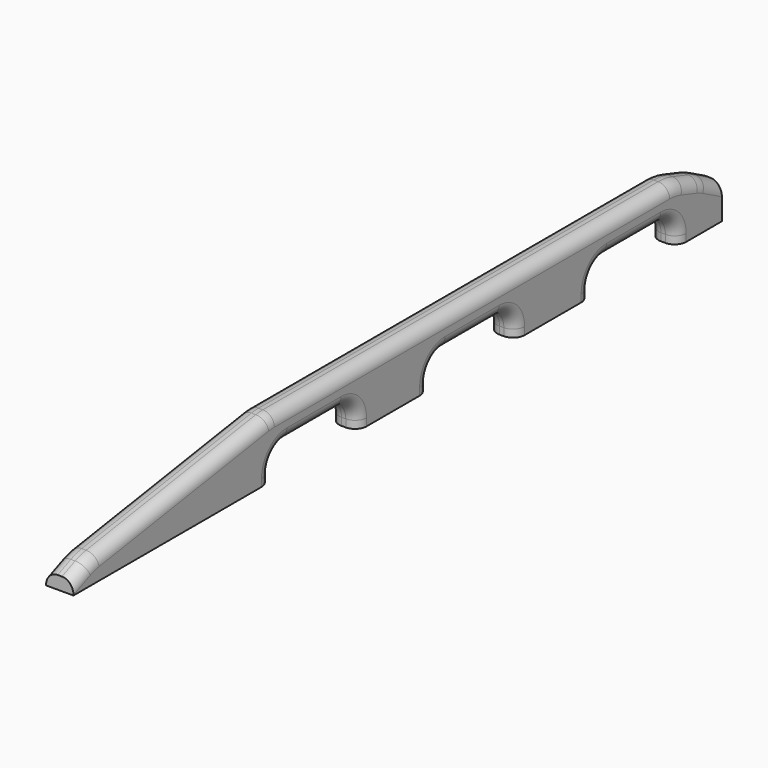
from build123d import *

# Parameters (mm, degrees)
F1_DEPTH      = 15.08125
F1_DEPTH_BACK = 15.08125
F2_R          = 63.5
F3_R          = 22.225
F4_R          = 12.7


with BuildPart() as f1:
    # F0 (on Right) → F1 (new body, two sides)
    with BuildSketch(Plane.YZ) as f1_sk:
        Polygon((0, 14.2875), (0, 0), (271.4625, 0), (271.4625, 30.48), (390.525, 30.48), (390.525, 0), (488.95, 0), (488.95, 30.48), (608.0125, 30.48), (608.0125, 0), (711.2, 0), (711.2, 30.48), (830.2625, 30.48), (830.2625, 0), (892.175, 0), (892.175, 38.1), (866.775, 51.60542), (830.2625, 63.5), (271.4625, 63.5), (25.4, 25.06916), align=None)
    extrude(amount=F1_DEPTH)
    extrude(f1_sk.sketch, amount=-F1_DEPTH_BACK)

    # F2
    f2_edges = [f1.edges().sort_by_distance(p)[0] for p in [
        (0, 25.4, 25.06916),
        (0, 271.4625, 63.5),
        (0, 830.2625, 63.5),
        (0, 866.775, 51.60542),
    ]]
    fillet(f2_edges, radius=F2_R)

    # F3
    f3_edges = [f1.edges().sort_by_distance(p)[0] for p in [
        (0, 271.4625, 30.48),
        (0, 488.95, 30.48),
        (0, 711.2, 30.48),
        (0, 390.525, 30.48),
        (0, 608.0125, 30.48),
        (0, 830.2625, 30.48),
    ]]
    fillet(f3_edges, radius=F3_R)

    # F4
    f4_edges = [f1.edges().sort_by_distance(p)[0] for p in [
        (-15.08125, 330.99375, 30.48),
        (15.08125, 330.99375, 30.48),
        (-15.08125, 548.48125, 30.48),
        (15.08125, 548.48125, 30.48),
        (-15.08125, 770.73125, 30.48),
        (15.08125, 770.73125, 30.48),
        (15.08125, 548.28579, 63.5),
        (-15.08125, 548.28579, 63.5),
    ]]
    fillet(f4_edges, radius=F4_R)


solid = f1.part
